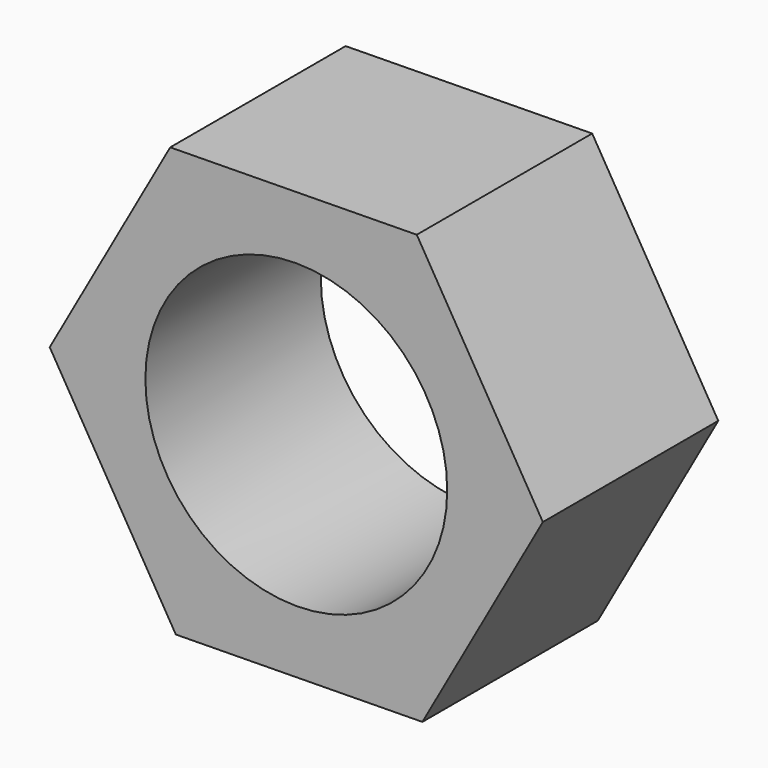
from build123d import *

# Parameters (mm, degrees)
F0_R     = 17.482868
F1_DEPTH = 25.4
F2_DEPTH = 25.4


with BuildPart() as f1:
    # F0 (on Front) → F1 (new body)
    with BuildSketch(Plane.XZ):
        Polygon((-14.606514, 24.550197), (-28.564351, -0.374514), (-13.957837, -24.924711), (14.606514, -24.550197), (28.564351, 0.374514), (13.957837, 24.924711), align=None)
        Circle(F0_R, mode=Mode.SUBTRACT)
    extrude(amount=F1_DEPTH)

    # F0 (on Front) → F2 (join)
    with BuildSketch(Plane.XZ):
        Polygon((-14.606514, 24.550197), (-28.564351, -0.374514), (-13.957837, -24.924711), (14.606514, -24.550197), (28.564351, 0.374514), (13.957837, 24.924711), align=None)
        Circle(F0_R, mode=Mode.SUBTRACT)
    extrude(amount=F2_DEPTH)


solid = f1.part
